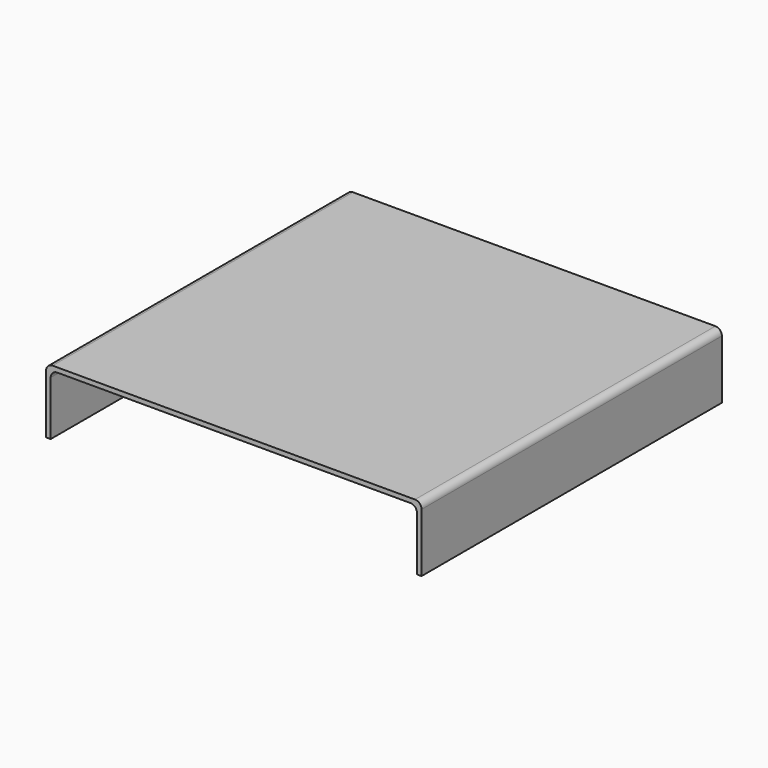
from build123d import *

# Parameters (mm, degrees)
F0_W     = 292.1
F0_H     = 292.1
F1_DEPTH = 50.8
F2_T     = -3.571875
F3_R     = 5.08


with BuildPart() as f1:
    # F0 (on Top) → F1 (new body)
    with BuildSketch(Plane.XY):
        with Locations((-56.953185622, -2.171928063)):
            Rectangle(F0_W, F0_H)
    extrude(amount=F1_DEPTH)

    # F2
    f2_openings = [f1.faces().sort_by_distance(p)[0] for p in [
        (-56.953186, -148.221928, 25.4),
        (-56.953186, 143.878072, 25.4),
        (-56.953186, -2.171928, 0),
    ]]
    offset(amount=F2_T, openings=f2_openings)

    # F3
    f3_edges = [f1.edges().sort_by_distance(p)[0] for p in [
        (-199.431311, -2.171928, 47.228125),
        (85.524939, -2.171928, 47.228125),
        (-203.003186, -2.171928, 50.8),
        (89.096814, -2.171928, 50.8),
    ]]
    fillet(f3_edges, radius=F3_R)


solid = f1.part
